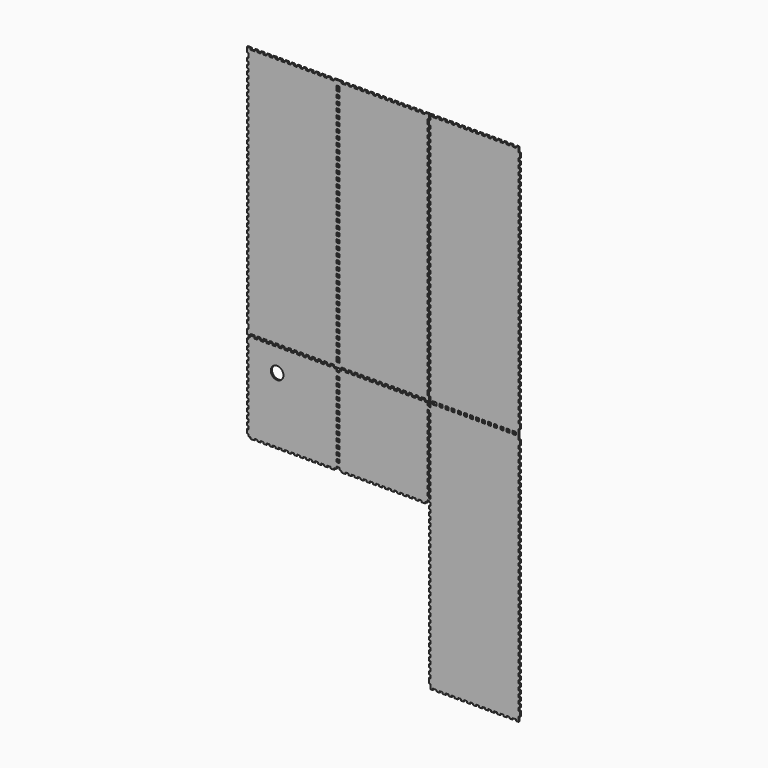
from build123d import *

# Parameters (mm, degrees)
F1_DEPTH = 3


with BuildPart() as f1:
    # F0 (on Front) → F1 (new body)
    with BuildSketch(Plane.XZ):
        Polygon((94.128044, 496.455848), (91.091867, 496.455848), (91.091867, 486.84343), (94.128044, 486.84343), (94.128044, 480.771076), (91.091867, 480.771076), (91.091867, 474.696151), (94.128044, 474.696151), (94.128044, 468.623797), (91.091867, 468.623797), (91.091867, 462.554014), (94.128044, 462.554014), (94.128044, 456.479089), (91.091867, 456.479089), (91.091867, 450.406735), (94.128044, 450.406735), (94.128044, 444.33181), (91.091867, 444.33181), (91.091867, 438.259456), (94.128044, 438.259456), (94.128044, 432.184531), (91.091867, 432.184531), (91.091867, 426.112177), (94.128044, 426.112177), (94.128044, 420.042393), (91.091867, 420.042393), (91.091867, 413.967468), (94.128044, 413.967468), (94.128044, 407.895114), (91.091867, 407.895114), (91.091867, 401.820189), (94.128044, 401.820189), (94.128044, 395.750406), (91.091867, 395.750406), (91.091867, 389.678052), (94.128044, 389.678052), (94.128044, 383.603127), (91.091867, 383.603127), (91.091867, 377.530773), (94.128044, 377.530773), (94.128044, 371.455848), (91.091867, 371.455848), (91.091867, 365.386065), (94.128044, 365.386065), (94.128044, 359.31114), (91.091867, 359.31114), (91.091867, 353.238786), (94.128044, 353.238786), (94.128044, 347.163861), (91.091867, 347.163861), (91.091867, 341.094078), (94.128044, 341.094078), (94.128044, 335.021724), (91.091867, 335.021724), (91.091867, 328.946799), (94.128044, 328.946799), (94.128044, 322.874445), (91.091867, 322.874445), (91.091867, 316.79952), (94.128044, 316.79952), (94.128044, 310.729737), (91.091867, 310.729737), (91.091867, 304.657382), (94.128044, 304.657382), (94.128044, 298.582458), (91.091867, 298.582458), (91.091867, 292.510103), (94.128044, 292.510103), (94.128044, 286.44032), (91.091867, 286.44032), (91.091867, 280.365395), (94.128044, 280.365395), (94.128044, 274.293041), (91.091867, 274.293041), (91.091867, 268.218116), (94.128044, 268.218116), (94.128044, 262.145762), (91.091867, 262.145762), (91.091867, 256.073408), (94.128044, 256.073408), (94.128044, 250.001054), (91.091867, 250.001054), (91.091867, 243.926129), (94.128044, 243.926129), (94.128044, 237.853775), (91.091867, 237.853775), (91.091867, 231.77885), (94.128044, 231.77885), (94.128044, 225.709067), (91.091867, 225.709067), (91.091867, 219.636713), (94.128044, 219.636713), (94.128044, 213.561788), (91.091867, 213.561788), (91.091867, 207.489434), (94.128044, 207.489434), (94.128044, 201.419651), (91.091867, 201.419651), (91.091867, 195.344726), (94.128044, 195.344726), (94.128044, 189.272372), (91.091867, 189.272372), (91.091867, 183.197447), (94.128044, 183.197447), (94.128044, 177.125093), (91.091867, 177.125093), (91.091867, 171.055309), (94.128044, 171.055309), (94.128044, 164.980384), (91.091867, 164.980384), (91.091867, 158.90803), (94.128044, 158.90803), (94.128044, 152.833105), (91.091867, 152.833105), (91.091867, 146.763322), (94.128044, 146.763322), (94.128044, 140.688397), (91.091867, 140.688397), (91.091867, 134.616043), (94.128044, 134.616043), (94.128044, 128.543689), (91.091867, 128.543689), (91.091867, 122.468764), (94.128044, 122.468764), (94.128044, 116.398981), (91.091867, 116.398981), (91.091867, 110.324056), (94.128044, 110.324056), (94.128044, 104.251702), (91.091867, 104.251702), (91.091867, 98.176777), (94.128044, 98.176777), (94.128044, 92.106994), (91.091867, 92.106994), (91.091867, 86.03464), (94.128044, 86.03464), (94.128044, 79.959715), (91.091867, 79.959715), (91.091867, 73.887361), (94.128044, 73.887361), (94.128044, 67.812436), (91.091867, 67.812436), (91.091867, 61.740082), (94.128044, 61.740082), (94.128044, 55.665157), (91.091867, 55.665157), (91.091867, 49.595373), (94.128044, 49.595373), (94.128044, 43.523019), (91.091867, 43.523019), (91.091867, 37.448094), (94.128044, 37.448094), (94.128044, 31.37574), (91.091867, 31.37574), (91.091867, 25.305957), (94.128044, 25.305957), (94.128044, 19.231032), (91.091867, 19.231032), (91.091867, 9.616043), (94.128044, 9.616043), (94.128044, 0.001054), (98.683595, 0.001054), (98.683595, 3.037231), (106.275323, 3.037231), (106.275323, 0.001054), (112.347677, 0.001054), (112.347677, 3.037231), (118.422602, 3.037231), (118.422602, 0.001054), (124.492385, 0.001054), (124.492385, 3.037231), (130.564739, 3.037231), (130.564739, 0.001054), (136.639664, 0.001054), (136.639664, 3.037231), (142.712018, 3.037231), (142.712018, 0.001054), (148.786943, 0.001054), (148.786943, 3.037231), (154.856726, 3.037231), (154.856726, 0.001054), (160.92908, 0.001054), (160.92908, 3.037231), (167.004005, 3.037231), (167.004005, 0.001054), (173.076359, 0.001054), (173.076359, 3.037231), (179.148714, 3.037231), (179.148714, 0.001054), (185.221068, 0.001054), (185.221068, 3.037231), (191.295993, 3.037231), (191.295993, 0.001054), (197.368347, 0.001054), (197.368347, 3.037231), (203.443272, 3.037231), (203.443272, 0.001054), (209.513055, 0.001054), (209.513055, 3.037231), (215.585409, 3.037231), (215.585409, 0.001054), (221.660334, 0.001054), (221.660334, 3.037231), (227.732688, 3.037231), (227.732688, 0.001054), (233.802471, 0.001054), (233.802471, 3.037231), (239.877396, 3.037231), (239.877396, 0.001054), (245.94975, 0.001054), (245.94975, 3.037231), (252.024675, 3.037231), (252.024675, 0.001054), (258.097029, 0.001054), (258.097029, 3.037231), (265.688757, 3.037231), (265.688757, 0.001054), (270.244308, 0.001054), (270.244308, 9.616043), (273.280485, 9.616043), (273.280485, 19.231032), (270.244308, 19.231032), (270.244308, 25.305957), (273.280485, 25.305957), (273.280485, 31.37574), (270.244308, 31.37574), (270.244308, 37.448094), (273.280485, 37.448094), (273.280485, 43.523019), (270.244308, 43.523019), (270.244308, 49.595373), (273.280485, 49.595373), (273.280485, 55.665157), (270.244308, 55.665157), (270.244308, 61.740082), (273.280485, 61.740082), (273.280485, 67.812436), (270.244308, 67.812436), (270.244308, 73.887361), (273.280485, 73.887361), (273.280485, 79.959715), (270.244308, 79.959715), (270.244308, 86.03464), (273.280485, 86.03464), (273.280485, 92.106994), (270.244308, 92.106994), (270.244308, 98.176777), (273.280485, 98.176777), (273.280485, 104.251702), (270.244308, 104.251702), (270.244308, 110.324056), (273.280485, 110.324056), (273.280485, 116.398981), (270.244308, 116.398981), (270.244308, 122.468764), (273.280485, 122.468764), (273.280485, 128.543689), (270.244308, 128.543689), (270.244308, 134.616043), (273.280485, 134.616043), (273.280485, 140.688397), (270.244308, 140.688397), (270.244308, 146.763322), (273.280485, 146.763322), (273.280485, 152.833105), (270.244308, 152.833105), (270.244308, 158.90803), (273.280485, 158.90803), (273.280485, 164.980384), (270.244308, 164.980384), (270.244308, 171.055309), (273.280485, 171.055309), (273.280485, 177.125093), (270.244308, 177.125093), (270.244308, 183.197447), (273.280485, 183.197447), (273.280485, 189.272372), (270.244308, 189.272372), (270.244308, 195.344726), (273.280485, 195.344726), (273.280485, 201.419651), (270.244308, 201.419651), (270.244308, 207.489434), (273.280485, 207.489434), (273.280485, 213.561788), (270.244308, 213.561788), (270.244308, 219.636713), (273.280485, 219.636713), (273.280485, 225.709067), (270.244308, 225.709067), (270.244308, 231.77885), (273.280485, 231.77885), (273.280485, 237.853775), (270.244308, 237.853775), (270.244308, 243.926129), (273.280485, 243.926129), (273.280485, 250.001054), (270.244308, 250.001054), (270.244308, 256.073408), (273.280485, 256.073408), (273.280485, 262.145762), (270.244308, 262.145762), (270.244308, 268.218116), (273.280485, 268.218116), (273.280485, 274.293041), (270.244308, 274.293041), (270.244308, 280.365395), (273.280485, 280.365395), (273.280485, 286.44032), (270.244308, 286.44032), (270.244308, 292.510103), (273.280485, 292.510103), (273.280485, 298.582458), (270.244308, 298.582458), (270.244308, 304.657382), (273.280485, 304.657382), (273.280485, 310.729737), (270.244308, 310.729737), (270.244308, 316.79952), (273.280485, 316.79952), (273.280485, 322.874445), (270.244308, 322.874445), (270.244308, 328.946799), (273.280485, 328.946799), (273.280485, 335.021724), (270.244308, 335.021724), (270.244308, 341.094078), (273.280485, 341.094078), (273.280485, 347.163861), (270.244308, 347.163861), (270.244308, 353.238786), (273.280485, 353.238786), (273.280485, 359.31114), (270.244308, 359.31114), (270.244308, 365.386065), (273.280485, 365.386065), (273.280485, 371.455848), (270.244308, 371.455848), (270.244308, 377.530773), (273.280485, 377.530773), (273.280485, 383.603127), (270.244308, 383.603127), (270.244308, 389.678052), (273.280485, 389.678052), (273.280485, 395.750406), (270.244308, 395.750406), (270.244308, 401.820189), (273.280485, 401.820189), (273.280485, 407.895114), (270.244308, 407.895114), (270.244308, 413.967468), (273.280485, 413.967468), (273.280485, 420.042393), (270.244308, 420.042393), (270.244308, 426.112177), (273.280485, 426.112177), (273.280485, 432.184531), (270.244308, 432.184531), (270.244308, 438.259456), (273.280485, 438.259456), (273.280485, 444.33181), (270.244308, 444.33181), (270.244308, 450.406735), (273.280485, 450.406735), (273.280485, 456.479089), (270.244308, 456.479089), (270.244308, 462.554014), (273.280485, 462.554014), (273.280485, 468.623797), (270.244308, 468.623797), (270.244308, 474.696151), (273.280485, 474.696151), (273.280485, 480.771076), (270.244308, 480.771076), (270.244308, 486.84343), (273.280485, 486.84343), (273.280485, 496.455848), (270.244308, 496.455848), (270.244308, 506.073408), (265.688757, 506.073408), (265.688757, 503.037231), (258.097029, 503.037231), (258.097029, 506.073408), (252.024675, 506.073408), (252.024675, 503.037231), (245.94975, 503.037231), (245.94975, 506.073408), (239.877396, 506.073408), (239.877396, 503.037231), (233.802471, 503.037231), (233.802471, 506.073408), (227.732688, 506.073408), (227.732688, 503.037231), (221.660334, 503.037231), (221.660334, 506.073408), (215.585409, 506.073408), (215.585409, 503.037231), (209.513055, 503.037231), (209.513055, 506.073408), (203.443272, 506.073408), (203.443272, 503.037231), (197.368347, 503.037231), (197.368347, 506.073408), (191.295993, 506.073408), (191.295993, 503.037231), (185.221068, 503.037231), (185.221068, 506.073408), (179.148714, 506.073408), (179.148714, 503.037231), (173.076359, 503.037231), (173.076359, 506.073408), (167.004005, 506.073408), (167.004005, 503.037231), (160.92908, 503.037231), (160.92908, 506.073408), (154.856726, 506.073408), (154.856726, 503.037231), (148.786943, 503.037231), (148.786943, 506.073408), (142.712018, 506.073408), (142.712018, 503.037231), (136.639664, 503.037231), (136.639664, 506.073408), (130.564739, 506.073408), (130.564739, 503.037231), (124.492385, 503.037231), (124.492385, 506.073408), (118.422602, 506.073408), (118.422602, 503.037231), (112.347677, 503.037231), (112.347677, 506.073408), (106.275323, 506.073408), (106.275323, 503.037231), (98.683595, 503.037231), (98.683595, 506.073408), (94.128044, 506.073408), align=None)
        Polygon((-265.6885, 506.073408), (-273.280485, 506.073408), (-273.280485, 496.455848), (-270.243794, 496.455848), (-270.243794, 486.84343), (-273.280485, 486.84343), (-273.280485, 480.771076), (-270.243794, 480.771076), (-270.243794, 474.696151), (-273.280485, 474.696151), (-273.280485, 468.623797), (-270.243794, 468.623797), (-270.243794, 462.554014), (-273.280485, 462.554014), (-273.280485, 456.479089), (-270.243794, 456.479089), (-270.243794, 450.406735), (-273.280485, 450.406735), (-273.280485, 444.33181), (-270.243794, 444.33181), (-270.243794, 438.259456), (-273.280485, 438.259456), (-273.280485, 432.184531), (-270.243794, 432.184531), (-270.243794, 426.112177), (-273.280485, 426.112177), (-273.280485, 420.042393), (-270.243794, 420.042393), (-270.243794, 413.967468), (-273.280485, 413.967468), (-273.280485, 407.895114), (-270.243794, 407.895114), (-270.243794, 401.820189), (-273.280485, 401.820189), (-273.280485, 395.750406), (-270.243794, 395.750406), (-270.243794, 389.678052), (-273.280485, 389.678052), (-273.280485, 383.603127), (-270.243794, 383.603127), (-270.243794, 377.530773), (-273.280485, 377.530773), (-273.280485, 371.455848), (-270.243794, 371.455848), (-270.243794, 365.386065), (-273.280485, 365.386065), (-273.280485, 359.31114), (-270.243794, 359.31114), (-270.243794, 353.238786), (-273.280485, 353.238786), (-273.280485, 347.163861), (-270.243794, 347.163861), (-270.243794, 341.094078), (-273.280485, 341.094078), (-273.280485, 335.021724), (-270.243794, 335.021724), (-270.243794, 328.946799), (-273.280485, 328.946799), (-273.280485, 322.874445), (-270.243794, 322.874445), (-270.243794, 316.79952), (-273.280485, 316.79952), (-273.280485, 310.729737), (-270.243794, 310.729737), (-270.243794, 304.657382), (-273.280485, 304.657382), (-273.280485, 298.582458), (-270.243794, 298.582458), (-270.243794, 292.510103), (-273.280485, 292.510103), (-273.280485, 286.44032), (-270.243794, 286.44032), (-270.243794, 280.365395), (-273.280485, 280.365395), (-273.280485, 274.293041), (-270.243794, 274.293041), (-270.243794, 268.218116), (-273.280485, 268.218116), (-273.280485, 262.145762), (-270.243794, 262.145762), (-270.243794, 256.073408), (-273.280485, 256.073408), (-273.280485, 250.001054), (-270.243794, 250.001054), (-270.243794, 243.926129), (-273.280485, 243.926129), (-273.280485, 237.853775), (-270.243794, 237.853775), (-270.243794, 231.77885), (-273.280485, 231.77885), (-273.280485, 225.709067), (-270.243794, 225.709067), (-270.243794, 219.636713), (-273.280485, 219.636713), (-273.280485, 213.561788), (-270.243794, 213.561788), (-270.243794, 207.489434), (-273.280485, 207.489434), (-273.280485, 201.419651), (-270.243794, 201.419651), (-270.243794, 195.344726), (-273.280485, 195.344726), (-273.280485, 189.272372), (-270.243794, 189.272372), (-270.243794, 183.197447), (-273.280485, 183.197447), (-273.280485, 177.125093), (-270.243794, 177.125093), (-270.243794, 171.055309), (-273.280485, 171.055309), (-273.280485, 164.980384), (-270.243794, 164.980384), (-270.243794, 158.90803), (-273.280485, 158.90803), (-273.280485, 152.833105), (-270.243794, 152.833105), (-270.243794, 146.763322), (-273.280485, 146.763322), (-273.280485, 140.688397), (-270.243794, 140.688397), (-270.243794, 134.616043), (-273.280485, 134.616043), (-273.280485, 128.543689), (-270.243794, 128.543689), (-270.243794, 122.468764), (-273.280485, 122.468764), (-273.280485, 116.398981), (-270.243794, 116.398981), (-270.243794, 110.324056), (-273.280485, 110.324056), (-273.280485, 104.251702), (-270.243794, 104.251702), (-270.243794, 98.176777), (-273.280485, 98.176777), (-273.280485, 92.106994), (-270.243794, 92.106994), (-270.243794, 86.03464), (-273.280485, 86.03464), (-273.280485, 79.959715), (-270.243794, 79.959715), (-270.243794, 73.887361), (-273.280485, 73.887361), (-273.280485, 67.812436), (-270.243794, 67.812436), (-270.243794, 61.740082), (-273.280485, 61.740082), (-273.280485, 55.665157), (-270.243794, 55.665157), (-270.243794, 49.595373), (-273.280485, 49.595373), (-273.280485, 43.523019), (-270.243794, 43.523019), (-270.243794, 37.448094), (-273.280485, 37.448094), (-273.280485, 31.37574), (-270.243794, 31.37574), (-270.243794, 25.305957), (-273.280485, 25.305957), (-273.280485, 19.231032), (-270.243794, 19.231032), (-270.243794, 9.616043), (-273.280485, 9.616043), (-273.280485, 0.001054), (-265.6885, 0.001054), (-265.6885, 3.037231), (-258.098057, 3.037231), (-258.098057, 0.001054), (-252.025446, 0.001054), (-252.025446, 3.037231), (-245.952578, 3.037231), (-245.952578, 0.001054), (-239.87971, 0.001054), (-239.87971, 3.037231), (-233.806842, 3.037231), (-233.806842, 0.001054), (-227.733716, 0.001054), (-227.733716, 3.037231), (-221.660848, 3.037231), (-221.660848, 0.001054), (-215.588237, 0.001054), (-215.588237, 3.037231), (-209.515369, 3.037231), (-209.515369, 0.001054), (-203.4425, 0.001054), (-203.4425, 3.037231), (-197.369632, 3.037231), (-197.369632, 0.001054), (-191.296507, 0.001054), (-191.296507, 3.037231), (-185.223896, 3.037231), (-185.223896, 0.001054), (-179.151027, 0.001054), (-179.151027, 3.037231), (-173.078159, 3.037231), (-173.078159, 0.001054), (-167.005291, 0.001054), (-167.005291, 3.037231), (-160.932423, 3.037231), (-160.932423, 0.001054), (-154.859811, 0.001054), (-154.859811, 3.037231), (-148.786943, 3.037231), (-148.786943, 0.001054), (-142.713818, 0.001054), (-142.713818, 3.037231), (-136.639664, 3.037231), (-136.639664, 0.001054), (-130.566539, 0.001054), (-130.566539, 3.037231), (-124.493928, 3.037231), (-124.493928, 0.001054), (-118.421059, 0.001054), (-118.421059, 3.037231), (-112.348191, 3.037231), (-112.348191, 0.001054), (-106.275323, 0.001054), (-106.275323, 3.037231), (-98.68488, 3.037231), (-98.68488, 0.001054), (-91.093409, 0.001054), (-91.093409, 9.616043), (-94.129329, 9.616043), (-94.129329, 19.231032), (-91.093409, 19.231032), (-91.093409, 25.305957), (-94.129329, 25.305957), (-94.129329, 31.37574), (-91.093409, 31.37574), (-91.093409, 37.448094), (-94.129329, 37.448094), (-94.129329, 43.523019), (-91.093409, 43.523019), (-91.093409, 49.595373), (-94.129329, 49.595373), (-94.129329, 55.665157), (-91.093409, 55.665157), (-91.093409, 61.740082), (-94.129329, 61.740082), (-94.129329, 67.812436), (-91.093409, 67.812436), (-91.093409, 73.887361), (-94.129329, 73.887361), (-94.129329, 79.959715), (-91.093409, 79.959715), (-91.093409, 86.03464), (-94.129329, 86.03464), (-94.129329, 92.106994), (-91.093409, 92.106994), (-91.093409, 98.176777), (-94.129329, 98.176777), (-94.129329, 104.251702), (-91.093409, 104.251702), (-91.093409, 110.324056), (-94.129329, 110.324056), (-94.129329, 116.398981), (-91.093409, 116.398981), (-91.093409, 122.468764), (-94.129329, 122.468764), (-94.129329, 128.543689), (-91.093409, 128.543689), (-91.093409, 134.616043), (-94.129329, 134.616043), (-94.129329, 140.688397), (-91.093409, 140.688397), (-91.093409, 146.763322), (-94.129329, 146.763322), (-94.129329, 152.833105), (-91.093409, 152.833105), (-91.093409, 158.90803), (-94.129329, 158.90803), (-94.129329, 164.980384), (-91.093409, 164.980384), (-91.093409, 171.055309), (-94.129329, 171.055309), (-94.129329, 177.125093), (-91.093409, 177.125093), (-91.093409, 183.197447), (-94.129329, 183.197447), (-94.129329, 189.272372), (-91.093409, 189.272372), (-91.093409, 195.344726), (-94.129329, 195.344726), (-94.129329, 201.419651), (-91.093409, 201.419651), (-91.093409, 207.489434), (-94.129329, 207.489434), (-94.129329, 213.561788), (-91.093409, 213.561788), (-91.093409, 219.636713), (-94.129329, 219.636713), (-94.129329, 225.709067), (-91.093409, 225.709067), (-91.093409, 231.77885), (-94.129329, 231.77885), (-94.129329, 237.853775), (-91.093409, 237.853775), (-91.093409, 243.926129), (-94.129329, 243.926129), (-94.129329, 250.001054), (-91.093409, 250.001054), (-91.093409, 256.073408), (-94.129329, 256.073408), (-94.129329, 262.145762), (-91.093409, 262.145762), (-91.093409, 268.218116), (-94.129329, 268.218116), (-94.129329, 274.293041), (-91.093409, 274.293041), (-91.093409, 280.365395), (-94.129329, 280.365395), (-94.129329, 286.44032), (-91.093409, 286.44032), (-91.093409, 292.510103), (-94.129329, 292.510103), (-94.129329, 298.582458), (-91.093409, 298.582458), (-91.093409, 304.657382), (-94.129329, 304.657382), (-94.129329, 310.729737), (-91.093409, 310.729737), (-91.093409, 316.79952), (-94.129329, 316.79952), (-94.129329, 322.874445), (-91.093409, 322.874445), (-91.093409, 328.946799), (-94.129329, 328.946799), (-94.129329, 335.021724), (-91.093409, 335.021724), (-91.093409, 341.094078), (-94.129329, 341.094078), (-94.129329, 347.163861), (-91.093409, 347.163861), (-91.093409, 353.238786), (-94.129329, 353.238786), (-94.129329, 359.31114), (-91.093409, 359.31114), (-91.093409, 365.386065), (-94.129329, 365.386065), (-94.129329, 371.455848), (-91.093409, 371.455848), (-91.093409, 377.530773), (-94.129329, 377.530773), (-94.129329, 383.603127), (-91.093409, 383.603127), (-91.093409, 389.678052), (-94.129329, 389.678052), (-94.129329, 395.750406), (-91.093409, 395.750406), (-91.093409, 401.820189), (-94.129329, 401.820189), (-94.129329, 407.895114), (-91.093409, 407.895114), (-91.093409, 413.967468), (-94.129329, 413.967468), (-94.129329, 420.042393), (-91.093409, 420.042393), (-91.093409, 426.112177), (-94.129329, 426.112177), (-94.129329, 432.184531), (-91.093409, 432.184531), (-91.093409, 438.259456), (-94.129329, 438.259456), (-94.129329, 444.33181), (-91.093409, 444.33181), (-91.093409, 450.406735), (-94.129329, 450.406735), (-94.129329, 456.479089), (-91.093409, 456.479089), (-91.093409, 462.554014), (-94.129329, 462.554014), (-94.129329, 468.623797), (-91.093409, 468.623797), (-91.093409, 474.696151), (-94.129329, 474.696151), (-94.129329, 480.771076), (-91.093409, 480.771076), (-91.093409, 486.84343), (-94.129329, 486.84343), (-94.129329, 496.455848), (-91.093409, 496.455848), (-91.093409, 506.073408), (-98.68488, 506.073408), (-98.68488, 503.037231), (-106.275323, 503.037231), (-106.275323, 506.073408), (-112.348191, 506.073408), (-112.348191, 503.037231), (-118.421059, 503.037231), (-118.421059, 506.073408), (-124.493928, 506.073408), (-124.493928, 503.037231), (-130.566539, 503.037231), (-130.566539, 506.073408), (-136.639664, 506.073408), (-136.639664, 503.037231), (-142.713818, 503.037231), (-142.713818, 506.073408), (-148.786943, 506.073408), (-148.786943, 503.037231), (-154.859811, 503.037231), (-154.859811, 506.073408), (-160.932423, 506.073408), (-160.932423, 503.037231), (-167.005291, 503.037231), (-167.005291, 506.073408), (-173.078159, 506.073408), (-173.078159, 503.037231), (-179.151027, 503.037231), (-179.151027, 506.073408), (-185.223896, 506.073408), (-185.223896, 503.037231), (-191.296507, 503.037231), (-191.296507, 506.073408), (-197.369632, 506.073408), (-197.369632, 503.037231), (-203.4425, 503.037231), (-203.4425, 506.073408), (-209.515369, 506.073408), (-209.515369, 503.037231), (-215.588237, 503.037231), (-215.588237, 506.073408), (-221.660848, 506.073408), (-221.660848, 503.037231), (-227.733716, 503.037231), (-227.733716, 506.073408), (-233.806842, 506.073408), (-233.806842, 503.037231), (-239.87971, 503.037231), (-239.87971, 506.073408), (-245.952578, 506.073408), (-245.952578, 503.037231), (-252.025446, 503.037231), (-252.025446, 506.073408), (-258.098057, 506.073408), (-258.098057, 503.037231), (-265.6885, 503.037231), align=None)
        Polygon((-83.502967, 506.073408), (-91.093409, 506.073408), (-91.093409, 496.455848), (-88.056975, 496.455848), (-88.056975, 486.84343), (-91.093409, 486.84343), (-91.093409, 480.771076), (-88.056975, 480.771076), (-88.056975, 474.696151), (-91.093409, 474.696151), (-91.093409, 468.623797), (-88.056975, 468.623797), (-88.056975, 462.554014), (-91.093409, 462.554014), (-91.093409, 456.479089), (-88.056975, 456.479089), (-88.056975, 450.406735), (-91.093409, 450.406735), (-91.093409, 444.33181), (-88.056975, 444.33181), (-88.056975, 438.259456), (-91.093409, 438.259456), (-91.093409, 432.184531), (-88.056975, 432.184531), (-88.056975, 426.112177), (-91.093409, 426.112177), (-91.093409, 420.042393), (-88.056975, 420.042393), (-88.056975, 413.967468), (-91.093409, 413.967468), (-91.093409, 407.895114), (-88.056975, 407.895114), (-88.056975, 401.820189), (-91.093409, 401.820189), (-91.093409, 395.750406), (-88.056975, 395.750406), (-88.056975, 389.678052), (-91.093409, 389.678052), (-91.093409, 383.603127), (-88.056975, 383.603127), (-88.056975, 377.530773), (-91.093409, 377.530773), (-91.093409, 371.455848), (-88.056975, 371.455848), (-88.056975, 365.386065), (-91.093409, 365.386065), (-91.093409, 359.31114), (-88.056975, 359.31114), (-88.056975, 353.238786), (-91.093409, 353.238786), (-91.093409, 347.163861), (-88.056975, 347.163861), (-88.056975, 341.094078), (-91.093409, 341.094078), (-91.093409, 335.021724), (-88.056975, 335.021724), (-88.056975, 328.946799), (-91.093409, 328.946799), (-91.093409, 322.874445), (-88.056975, 322.874445), (-88.056975, 316.79952), (-91.093409, 316.79952), (-91.093409, 310.729737), (-88.056975, 310.729737), (-88.056975, 304.657382), (-91.093409, 304.657382), (-91.093409, 298.582458), (-88.056975, 298.582458), (-88.056975, 292.510103), (-91.093409, 292.510103), (-91.093409, 286.44032), (-88.056975, 286.44032), (-88.056975, 280.365395), (-91.093409, 280.365395), (-91.093409, 274.293041), (-88.056975, 274.293041), (-88.056975, 268.218116), (-91.093409, 268.218116), (-91.093409, 262.145762), (-88.056975, 262.145762), (-88.056975, 256.073408), (-91.093409, 256.073408), (-91.093409, 250.001054), (-88.056975, 250.001054), (-88.056975, 243.926129), (-91.093409, 243.926129), (-91.093409, 237.853775), (-88.056975, 237.853775), (-88.056975, 231.77885), (-91.093409, 231.77885), (-91.093409, 225.709067), (-88.056975, 225.709067), (-88.056975, 219.636713), (-91.093409, 219.636713), (-91.093409, 213.561788), (-88.056975, 213.561788), (-88.056975, 207.489434), (-91.093409, 207.489434), (-91.093409, 201.419651), (-88.056975, 201.419651), (-88.056975, 195.344726), (-91.093409, 195.344726), (-91.093409, 189.272372), (-88.056975, 189.272372), (-88.056975, 183.197447), (-91.093409, 183.197447), (-91.093409, 177.125093), (-88.056975, 177.125093), (-88.056975, 171.055309), (-91.093409, 171.055309), (-91.093409, 164.980384), (-88.056975, 164.980384), (-88.056975, 158.90803), (-91.093409, 158.90803), (-91.093409, 152.833105), (-88.056975, 152.833105), (-88.056975, 146.763322), (-91.093409, 146.763322), (-91.093409, 140.688397), (-88.056975, 140.688397), (-88.056975, 134.616043), (-91.093409, 134.616043), (-91.093409, 128.543689), (-88.056975, 128.543689), (-88.056975, 122.468764), (-91.093409, 122.468764), (-91.093409, 116.398981), (-88.056975, 116.398981), (-88.056975, 110.324056), (-91.093409, 110.324056), (-91.093409, 104.251702), (-88.056975, 104.251702), (-88.056975, 98.176777), (-91.093409, 98.176777), (-91.093409, 92.106994), (-88.056975, 92.106994), (-88.056975, 86.03464), (-91.093409, 86.03464), (-91.093409, 79.959715), (-88.056975, 79.959715), (-88.056975, 73.887361), (-91.093409, 73.887361), (-91.093409, 67.812436), (-88.056975, 67.812436), (-88.056975, 61.740082), (-91.093409, 61.740082), (-91.093409, 55.665157), (-88.056975, 55.665157), (-88.056975, 49.595373), (-91.093409, 49.595373), (-91.093409, 43.523019), (-88.056975, 43.523019), (-88.056975, 37.448094), (-91.093409, 37.448094), (-91.093409, 31.37574), (-88.056975, 31.37574), (-88.056975, 25.305957), (-91.093409, 25.305957), (-91.093409, 19.231032), (-88.056975, 19.231032), (-88.056975, 9.616043), (-91.093409, 9.616043), (-91.093409, 0.001054), (-83.502967, 0.001054), (-83.502967, 3.037231), (-75.910725, 3.037231), (-75.910725, 0.001054), (-69.83837, 0.001054), (-69.83837, 3.037231), (-63.766016, 3.037231), (-63.766016, 0.001054), (-57.693662, 0.001054), (-57.693662, 3.037231), (-51.618737, 3.037231), (-51.618737, 0.001054), (-45.546383, 0.001054), (-45.546383, 3.037231), (-39.474029, 3.037231), (-39.474029, 0.001054), (-33.401675, 0.001054), (-33.401675, 3.037231), (-27.329321, 3.037231), (-27.329321, 0.001054), (-21.254396, 0.001054), (-21.254396, 3.037231), (-15.182042, 3.037231), (-15.182042, 0.001054), (-9.109688, 0.001054), (-9.109688, 3.037231), (-3.037334, 3.037231), (-3.037334, 0.001054), (3.03502, 0.001054), (3.03502, 3.037231), (9.109945, 3.037231), (9.109945, 0.001054), (15.182299, 0.001054), (15.182299, 3.037231), (21.254653, 3.037231), (21.254653, 0.001054), (27.327007, 0.001054), (27.327007, 3.037231), (33.401932, 3.037231), (33.401932, 0.001054), (39.471715, 0.001054), (39.471715, 3.037231), (45.54407, 3.037231), (45.54407, 0.001054), (51.618994, 0.001054), (51.618994, 3.037231), (57.693919, 3.037231), (57.693919, 0.001054), (63.766273, 0.001054), (63.766273, 3.037231), (69.836057, 3.037231), (69.836057, 0.001054), (75.910982, 0.001054), (75.910982, 3.037231), (83.500139, 3.037231), (83.500139, 0.001054), (91.091867, 0.001054), (91.091867, 9.616043), (88.058261, 9.616043), (88.058261, 19.231032), (91.091867, 19.231032), (91.091867, 25.305957), (88.058261, 25.305957), (88.058261, 31.37574), (91.091867, 31.37574), (91.091867, 37.448094), (88.058261, 37.448094), (88.058261, 43.523019), (91.091867, 43.523019), (91.091867, 49.595373), (88.058261, 49.595373), (88.058261, 55.665157), (91.091867, 55.665157), (91.091867, 61.740082), (88.058261, 61.740082), (88.058261, 67.812436), (91.091867, 67.812436), (91.091867, 73.887361), (88.058261, 73.887361), (88.058261, 79.959715), (91.091867, 79.959715), (91.091867, 86.03464), (88.058261, 86.03464), (88.058261, 92.106994), (91.091867, 92.106994), (91.091867, 98.176777), (88.058261, 98.176777), (88.058261, 104.251702), (91.091867, 104.251702), (91.091867, 110.324056), (88.058261, 110.324056), (88.058261, 116.398981), (91.091867, 116.398981), (91.091867, 122.468764), (88.058261, 122.468764), (88.058261, 128.543689), (91.091867, 128.543689), (91.091867, 134.616043), (88.058261, 134.616043), (88.058261, 140.688397), (91.091867, 140.688397), (91.091867, 146.763322), (88.058261, 146.763322), (88.058261, 152.833105), (91.091867, 152.833105), (91.091867, 158.90803), (88.058261, 158.90803), (88.058261, 164.980384), (91.091867, 164.980384), (91.091867, 171.055309), (88.058261, 171.055309), (88.058261, 177.125093), (91.091867, 177.125093), (91.091867, 183.197447), (88.058261, 183.197447), (88.058261, 189.272372), (91.091867, 189.272372), (91.091867, 195.344726), (88.058261, 195.344726), (88.058261, 201.419651), (91.091867, 201.419651), (91.091867, 207.489434), (88.058261, 207.489434), (88.058261, 213.561788), (91.091867, 213.561788), (91.091867, 219.636713), (88.058261, 219.636713), (88.058261, 225.709067), (91.091867, 225.709067), (91.091867, 231.77885), (88.058261, 231.77885), (88.058261, 237.853775), (91.091867, 237.853775), (91.091867, 243.926129), (88.058261, 243.926129), (88.058261, 250.001054), (91.091867, 250.001054), (91.091867, 256.073408), (88.058261, 256.073408), (88.058261, 262.145762), (91.091867, 262.145762), (91.091867, 268.218116), (88.058261, 268.218116), (88.058261, 274.293041), (91.091867, 274.293041), (91.091867, 280.365395), (88.058261, 280.365395), (88.058261, 286.44032), (91.091867, 286.44032), (91.091867, 292.510103), (88.058261, 292.510103), (88.058261, 298.582458), (91.091867, 298.582458), (91.091867, 304.657382), (88.058261, 304.657382), (88.058261, 310.729737), (91.091867, 310.729737), (91.091867, 316.79952), (88.058261, 316.79952), (88.058261, 322.874445), (91.091867, 322.874445), (91.091867, 328.946799), (88.058261, 328.946799), (88.058261, 335.021724), (91.091867, 335.021724), (91.091867, 341.094078), (88.058261, 341.094078), (88.058261, 347.163861), (91.091867, 347.163861), (91.091867, 353.238786), (88.058261, 353.238786), (88.058261, 359.31114), (91.091867, 359.31114), (91.091867, 365.386065), (88.058261, 365.386065), (88.058261, 371.455848), (91.091867, 371.455848), (91.091867, 377.530773), (88.058261, 377.530773), (88.058261, 383.603127), (91.091867, 383.603127), (91.091867, 389.678052), (88.058261, 389.678052), (88.058261, 395.750406), (91.091867, 395.750406), (91.091867, 401.820189), (88.058261, 401.820189), (88.058261, 407.895114), (91.091867, 407.895114), (91.091867, 413.967468), (88.058261, 413.967468), (88.058261, 420.042393), (91.091867, 420.042393), (91.091867, 426.112177), (88.058261, 426.112177), (88.058261, 432.184531), (91.091867, 432.184531), (91.091867, 438.259456), (88.058261, 438.259456), (88.058261, 444.33181), (91.091867, 444.33181), (91.091867, 450.406735), (88.058261, 450.406735), (88.058261, 456.479089), (91.091867, 456.479089), (91.091867, 462.554014), (88.058261, 462.554014), (88.058261, 468.623797), (91.091867, 468.623797), (91.091867, 474.696151), (88.058261, 474.696151), (88.058261, 480.771076), (91.091867, 480.771076), (91.091867, 486.84343), (88.058261, 486.84343), (88.058261, 496.455848), (91.091867, 496.455848), (91.091867, 506.073408), (83.500139, 506.073408), (83.500139, 503.037231), (75.910982, 503.037231), (75.910982, 506.073408), (69.836057, 506.073408), (69.836057, 503.037231), (63.766273, 503.037231), (63.766273, 506.073408), (57.693919, 506.073408), (57.693919, 503.037231), (51.618994, 503.037231), (51.618994, 506.073408), (45.54407, 506.073408), (45.54407, 503.037231), (39.471715, 503.037231), (39.471715, 506.073408), (33.401932, 506.073408), (33.401932, 503.037231), (27.327007, 503.037231), (27.327007, 506.073408), (21.254653, 506.073408), (21.254653, 503.037231), (15.182299, 503.037231), (15.182299, 506.073408), (9.109945, 506.073408), (9.109945, 503.037231), (3.03502, 503.037231), (3.03502, 506.073408), (-3.037334, 506.073408), (-3.037334, 503.037231), (-9.109688, 503.037231), (-9.109688, 506.073408), (-15.182042, 506.073408), (-15.182042, 503.037231), (-21.254396, 503.037231), (-21.254396, 506.073408), (-27.329321, 506.073408), (-27.329321, 503.037231), (-33.401675, 503.037231), (-33.401675, 506.073408), (-39.474029, 506.073408), (-39.474029, 503.037231), (-45.546383, 503.037231), (-45.546383, 506.073408), (-51.618737, 506.073408), (-51.618737, 503.037231), (-57.693662, 503.037231), (-57.693662, 506.073408), (-63.766016, 506.073408), (-63.766016, 503.037231), (-69.83837, 503.037231), (-69.83837, 506.073408), (-75.910725, 506.073408), (-75.910725, 503.037231), (-83.502967, 503.037231), align=None)
        Polygon((-258.098057, 0.001054), (-265.6885, 0.001054), (-265.6885, -3.035123), (-270.243794, -3.035123), (-270.243794, -7.590674), (-273.280485, -7.590674), (-273.280485, -15.182402), (-270.243794, -15.182402), (-270.243794, -21.257327), (-273.280485, -21.257327), (-273.280485, -27.32711), (-270.243794, -27.32711), (-270.243794, -33.399464), (-273.280485, -33.399464), (-273.280485, -39.474389), (-270.243794, -39.474389), (-270.243794, -45.546743), (-273.280485, -45.546743), (-273.280485, -51.616526), (-270.243794, -51.616526), (-270.243794, -57.691451), (-273.280485, -57.691451), (-273.280485, -63.763805), (-270.243794, -63.763805), (-270.243794, -69.83873), (-273.280485, -69.83873), (-273.280485, -75.911084), (-270.243794, -75.911084), (-270.243794, -81.986009), (-273.280485, -81.986009), (-273.280485, -88.058363), (-270.243794, -88.058363), (-270.243794, -94.128147), (-273.280485, -94.128147), (-273.280485, -100.203072), (-270.243794, -100.203072), (-270.243794, -106.275426), (-273.280485, -106.275426), (-273.280485, -112.350351), (-270.243794, -112.350351), (-270.243794, -118.420134), (-273.280485, -118.420134), (-273.280485, -124.492488), (-270.243794, -124.492488), (-270.243794, -130.567413), (-273.280485, -130.567413), (-273.280485, -136.642338), (-270.243794, -136.642338), (-270.243794, -142.714692), (-273.280485, -142.714692), (-273.280485, -148.784475), (-270.243794, -148.784475), (-270.243794, -154.8594), (-273.280485, -154.8594), (-273.280485, -160.931754), (-270.243794, -160.931754), (-270.243794, -167.004108), (-273.280485, -167.004108), (-273.280485, -174.595836), (-270.243794, -174.595836), (-270.243794, -179.151387), (-265.6885, -179.151387), (-265.6885, -182.187564), (-258.098057, -182.187564), (-258.098057, -179.151387), (-252.025446, -179.151387), (-252.025446, -182.187564), (-245.952578, -182.187564), (-245.952578, -179.151387), (-239.87971, -179.151387), (-239.87971, -182.187564), (-233.806842, -182.187564), (-233.806842, -179.151387), (-227.733716, -179.151387), (-227.733716, -182.187564), (-221.660848, -182.187564), (-221.660848, -179.151387), (-215.588237, -179.151387), (-215.588237, -182.187564), (-209.515369, -182.187564), (-209.515369, -179.151387), (-203.4425, -179.151387), (-203.4425, -182.187564), (-197.369632, -182.187564), (-197.369632, -179.151387), (-191.296507, -179.151387), (-191.296507, -182.187564), (-185.223896, -182.187564), (-185.223896, -179.151387), (-179.151027, -179.151387), (-179.151027, -182.187564), (-173.078159, -182.187564), (-173.078159, -179.151387), (-167.005291, -179.151387), (-167.005291, -182.187564), (-160.932423, -182.187564), (-160.932423, -179.151387), (-154.859811, -179.151387), (-154.859811, -182.187564), (-148.786943, -182.187564), (-148.786943, -179.151387), (-142.713818, -179.151387), (-142.713818, -182.187564), (-136.639664, -182.187564), (-136.639664, -179.151387), (-130.566539, -179.151387), (-130.566539, -182.187564), (-124.493928, -182.187564), (-124.493928, -179.151387), (-118.421059, -179.151387), (-118.421059, -182.187564), (-112.348191, -182.187564), (-112.348191, -179.151387), (-106.275323, -179.151387), (-106.275323, -182.187564), (-98.68488, -182.187564), (-98.68488, -179.151387), (-94.129329, -179.151387), (-94.129329, -174.595836), (-91.093409, -174.595836), (-91.093409, -167.004108), (-94.129329, -167.004108), (-94.129329, -160.931754), (-91.093409, -160.931754), (-91.093409, -154.8594), (-94.129329, -154.8594), (-94.129329, -148.784475), (-91.093409, -148.784475), (-91.093409, -142.714692), (-94.129329, -142.714692), (-94.129329, -136.642338), (-91.093409, -136.642338), (-91.093409, -130.567413), (-94.129329, -130.567413), (-94.129329, -124.492488), (-91.093409, -124.492488), (-91.093409, -118.420134), (-94.129329, -118.420134), (-94.129329, -112.350351), (-91.093409, -112.350351), (-91.093409, -106.275426), (-94.129329, -106.275426), (-94.129329, -100.203072), (-91.093409, -100.203072), (-91.093409, -94.128147), (-94.129329, -94.128147), (-94.129329, -88.058363), (-91.093409, -88.058363), (-91.093409, -81.986009), (-94.129329, -81.986009), (-94.129329, -75.911084), (-91.093409, -75.911084), (-91.093409, -69.83873), (-94.129329, -69.83873), (-94.129329, -63.763805), (-91.093409, -63.763805), (-91.093409, -57.691451), (-94.129329, -57.691451), (-94.129329, -51.616526), (-91.093409, -51.616526), (-91.093409, -45.546743), (-94.129329, -45.546743), (-94.129329, -39.474389), (-91.093409, -39.474389), (-91.093409, -33.399464), (-94.129329, -33.399464), (-94.129329, -27.32711), (-91.093409, -27.32711), (-91.093409, -21.257327), (-94.129329, -21.257327), (-94.129329, -15.182402), (-91.093409, -15.182402), (-91.093409, -7.590674), (-94.129329, -7.590674), (-94.129329, -3.035123), (-98.68488, -3.035123), (-98.68488, 0.001054), (-106.275323, 0.001054), (-106.275323, -3.035123), (-112.348191, -3.035123), (-112.348191, 0.001054), (-118.421059, 0.001054), (-118.421059, -3.035123), (-124.493928, -3.035123), (-124.493928, 0.001054), (-130.566539, 0.001054), (-130.566539, -3.035123), (-136.639664, -3.035123), (-136.639664, 0.001054), (-142.713818, 0.001054), (-142.713818, -3.035123), (-148.786943, -3.035123), (-148.786943, 0.001054), (-154.859811, 0.001054), (-154.859811, -3.035123), (-160.932423, -3.035123), (-160.932423, 0.001054), (-167.005291, 0.001054), (-167.005291, -3.035123), (-173.078159, -3.035123), (-173.078159, 0.001054), (-179.151027, 0.001054), (-179.151027, -3.035123), (-185.223896, -3.035123), (-185.223896, 0.001054), (-191.296507, 0.001054), (-191.296507, -3.035123), (-197.369632, -3.035123), (-197.369632, 0.001054), (-203.4425, 0.001054), (-203.4425, -3.035123), (-209.515369, -3.035123), (-209.515369, 0.001054), (-215.588237, 0.001054), (-215.588237, -3.035123), (-221.660848, -3.035123), (-221.660848, 0.001054), (-227.733716, 0.001054), (-227.733716, -3.035123), (-233.806842, -3.035123), (-233.806842, 0.001054), (-239.87971, 0.001054), (-239.87971, -3.035123), (-245.952578, -3.035123), (-245.952578, 0.001054), (-252.025446, 0.001054), (-252.025446, -3.035123), (-258.098057, -3.035123), align=None)
        Polygon((-199.899608, -47.945349), (-199.899608, -48.58292), (-199.899608, -49.220492), (-200.157722, -51.130635), (-200.894014, -53.506103), (-202.061695, -55.655336), (-203.605492, -57.529488), (-205.478873, -59.071999), (-207.628363, -60.239166), (-210.002031, -60.977001), (-211.914488, -61.234086), (-212.551803, -61.234086), (-213.189117, -61.234086), (-215.101317, -60.977001), (-217.476785, -60.239166), (-219.626018, -59.071999), (-221.497599, -57.529488), (-223.043453, -55.655336), (-224.21062, -53.506103), (-224.947169, -51.130635), (-225.20374, -49.220492), (-225.20374, -48.58292), (-225.20374, -47.945349), (-224.947169, -46.032634), (-224.21062, -43.657167), (-223.043453, -41.507934), (-221.497599, -39.638924), (-219.626018, -38.09127), (-217.476785, -36.924103), (-215.101317, -36.188839), (-213.189117, -35.931754), (-212.551803, -35.931754), (-211.914488, -35.931754), (-210.002031, -36.188839), (-207.628363, -36.924103), (-205.478873, -38.09127), (-203.605492, -39.638924), (-202.061695, -41.507934), (-200.894014, -43.657167), (-200.157722, -46.032634), align=None, mode=Mode.SUBTRACT)
        Polygon((-75.910725, 0.001054), (-83.502967, 0.001054), (-83.502967, -3.035123), (-88.056975, -3.035123), (-88.056975, -7.590674), (-91.093409, -7.590674), (-91.093409, -15.182402), (-88.056975, -15.182402), (-88.056975, -21.257327), (-91.093409, -21.257327), (-91.093409, -27.32711), (-88.056975, -27.32711), (-88.056975, -33.399464), (-91.093409, -33.399464), (-91.093409, -39.474389), (-88.056975, -39.474389), (-88.056975, -45.546743), (-91.093409, -45.546743), (-91.093409, -51.616526), (-88.056975, -51.616526), (-88.056975, -57.691451), (-91.093409, -57.691451), (-91.093409, -63.763805), (-88.056975, -63.763805), (-88.056975, -69.83873), (-91.093409, -69.83873), (-91.093409, -75.911084), (-88.056975, -75.911084), (-88.056975, -81.986009), (-91.093409, -81.986009), (-91.093409, -88.058363), (-88.056975, -88.058363), (-88.056975, -94.128147), (-91.093409, -94.128147), (-91.093409, -100.203072), (-88.056975, -100.203072), (-88.056975, -106.275426), (-91.093409, -106.275426), (-91.093409, -112.350351), (-88.056975, -112.350351), (-88.056975, -118.420134), (-91.093409, -118.420134), (-91.093409, -124.492488), (-88.056975, -124.492488), (-88.056975, -130.567413), (-91.093409, -130.567413), (-91.093409, -136.642338), (-88.056975, -136.642338), (-88.056975, -142.714692), (-91.093409, -142.714692), (-91.093409, -148.784475), (-88.056975, -148.784475), (-88.056975, -154.8594), (-91.093409, -154.8594), (-91.093409, -160.931754), (-88.056975, -160.931754), (-88.056975, -167.004108), (-91.093409, -167.004108), (-91.093409, -174.595836), (-88.056975, -174.595836), (-88.056975, -179.151387), (-83.502967, -179.151387), (-83.502967, -182.187564), (-75.910725, -182.187564), (-75.910725, -179.151387), (-69.83837, -179.151387), (-69.83837, -182.187564), (-63.766016, -182.187564), (-63.766016, -179.151387), (-57.693662, -179.151387), (-57.693662, -182.187564), (-51.618737, -182.187564), (-51.618737, -179.151387), (-45.546383, -179.151387), (-45.546383, -182.187564), (-39.474029, -182.187564), (-39.474029, -179.151387), (-33.401675, -179.151387), (-33.401675, -182.187564), (-27.329321, -182.187564), (-27.329321, -179.151387), (-21.254396, -179.151387), (-21.254396, -182.187564), (-15.182042, -182.187564), (-15.182042, -179.151387), (-9.109688, -179.151387), (-9.109688, -182.187564), (-3.037334, -182.187564), (-3.037334, -179.151387), (3.03502, -179.151387), (3.03502, -182.187564), (9.109945, -182.187564), (9.109945, -179.151387), (15.182299, -179.151387), (15.182299, -182.187564), (21.254653, -182.187564), (21.254653, -179.151387), (27.327007, -179.151387), (27.327007, -182.187564), (33.401932, -182.187564), (33.401932, -179.151387), (39.471715, -179.151387), (39.471715, -182.187564), (45.54407, -182.187564), (45.54407, -179.151387), (51.618994, -179.151387), (51.618994, -182.187564), (57.693919, -182.187564), (57.693919, -179.151387), (63.766273, -179.151387), (63.766273, -182.187564), (69.836057, -182.187564), (69.836057, -179.151387), (75.910982, -179.151387), (75.910982, -182.187564), (83.500139, -182.187564), (83.500139, -179.151387), (88.058261, -179.151387), (88.058261, -174.595836), (91.091867, -174.595836), (91.091867, -171.053201), (91.091867, -167.004108), (88.058261, -167.004108), (88.058261, -160.931754), (91.091867, -160.931754), (91.091867, -158.908493), (91.091867, -154.8594), (88.058261, -154.8594), (88.058261, -148.784475), (91.091867, -148.784475), (91.091867, -146.761214), (91.091867, -142.714692), (88.058261, -142.714692), (88.058261, -136.642338), (91.091867, -136.642338), (91.091867, -134.616506), (91.091867, -130.567413), (88.058261, -130.567413), (88.058261, -124.492488), (91.091867, -124.492488), (91.091867, -122.469227), (91.091867, -118.420134), (88.058261, -118.420134), (88.058261, -112.350351), (91.091867, -112.350351), (91.091867, -110.321948), (91.091867, -106.275426), (88.058261, -106.275426), (88.058261, -100.203072), (91.091867, -100.203072), (91.091867, -98.17724), (91.091867, -94.128147), (88.058261, -94.128147), (88.058261, -88.058363), (91.091867, -88.058363), (91.091867, -86.029961), (91.091867, -81.986009), (88.058261, -81.986009), (88.058261, -75.911084), (91.091867, -75.911084), (91.091867, -73.887823), (91.091867, -69.83873), (88.058261, -69.83873), (88.058261, -63.763805), (91.091867, -63.763805), (91.091867, -61.740544), (91.091867, -57.691451), (88.058261, -57.691451), (88.058261, -51.616526), (91.091867, -51.616526), (91.091867, -49.595836), (91.091867, -45.546743), (88.058261, -45.546743), (88.058261, -39.474389), (91.091867, -39.474389), (91.091867, -37.448557), (91.091867, -33.399464), (88.058261, -33.399464), (88.058261, -27.32711), (91.091867, -27.32711), (91.091867, -25.30642), (91.091867, -21.257327), (88.058261, -21.257327), (88.058261, -15.182402), (91.091867, -15.182402), (91.091867, -9.616506), (91.091867, -7.590674), (88.058261, -7.590674), (88.058261, -3.035123), (83.500139, -3.035123), (83.500139, 0.001054), (75.910982, 0.001054), (75.910982, -3.035123), (69.836057, -3.035123), (69.836057, 0.001054), (63.766273, 0.001054), (63.766273, -3.035123), (57.693919, -3.035123), (57.693919, 0.001054), (51.618994, 0.001054), (51.618994, -3.035123), (45.54407, -3.035123), (45.54407, 0.001054), (39.471715, 0.001054), (39.471715, -3.035123), (33.401932, -3.035123), (33.401932, 0.001054), (27.327007, 0.001054), (27.327007, -3.035123), (21.254653, -3.035123), (21.254653, 0.001054), (15.182299, 0.001054), (15.182299, -3.035123), (9.109945, -3.035123), (9.109945, 0.001054), (3.03502, 0.001054), (3.03502, -3.035123), (-3.037334, -3.035123), (-3.037334, 0.001054), (-9.109688, 0.001054), (-9.109688, -3.035123), (-15.182042, -3.035123), (-15.182042, 0.001054), (-21.254396, 0.001054), (-21.254396, -3.035123), (-27.329321, -3.035123), (-27.329321, 0.001054), (-33.401675, 0.001054), (-33.401675, -3.035123), (-39.474029, -3.035123), (-39.474029, 0.001054), (-45.546383, 0.001054), (-45.546383, -3.035123), (-51.618737, -3.035123), (-51.618737, 0.001054), (-57.693662, 0.001054), (-57.693662, -3.035123), (-63.766016, -3.035123), (-63.766016, 0.001054), (-69.83837, 0.001054), (-69.83837, -3.035123), (-75.910725, -3.035123), align=None)
        Polygon((98.683595, 0.001054), (94.128044, 0.001054), (94.128044, -9.616506), (91.091867, -9.616506), (91.091867, -15.182402), (91.091867, -19.231495), (94.128044, -19.231495), (94.128044, -25.30642), (91.091867, -25.30642), (91.091867, -27.32711), (91.091867, -31.376203), (94.128044, -31.376203), (94.128044, -37.448557), (91.091867, -37.448557), (91.091867, -39.474389), (91.091867, -43.523482), (94.128044, -43.523482), (94.128044, -49.595836), (91.091867, -49.595836), (91.091867, -51.616526), (91.091867, -55.665619), (94.128044, -55.665619), (94.128044, -61.740544), (91.091867, -61.740544), (91.091867, -63.763805), (91.091867, -67.812898), (94.128044, -67.812898), (94.128044, -73.887823), (91.091867, -73.887823), (91.091867, -75.911084), (91.091867, -79.960177), (94.128044, -79.960177), (94.128044, -86.029961), (91.091867, -86.029961), (91.091867, -88.058363), (91.091867, -92.104886), (94.128044, -92.104886), (94.128044, -98.17724), (91.091867, -98.17724), (91.091867, -100.203072), (91.091867, -104.252165), (94.128044, -104.252165), (94.128044, -110.321948), (91.091867, -110.321948), (91.091867, -112.350351), (91.091867, -116.396873), (94.128044, -116.396873), (94.128044, -122.469227), (91.091867, -122.469227), (91.091867, -124.492488), (91.091867, -128.541581), (94.128044, -128.541581), (94.128044, -134.616506), (91.091867, -134.616506), (91.091867, -136.642338), (91.091867, -140.686289), (94.128044, -140.686289), (94.128044, -146.761214), (91.091867, -146.761214), (91.091867, -148.784475), (91.091867, -152.833568), (94.128044, -152.833568), (94.128044, -158.908493), (91.091867, -158.908493), (91.091867, -160.931754), (91.091867, -164.978276), (94.128044, -164.978276), (94.128044, -171.053201), (91.091867, -171.053201), (91.091867, -174.595836), (91.091867, -177.125555), (94.128044, -177.125555), (94.128044, -183.197909), (91.091867, -183.197909), (91.091867, -189.272834), (94.128044, -189.272834), (94.128044, -195.345188), (91.091867, -195.345188), (91.091867, -201.417542), (94.128044, -201.417542), (94.128044, -207.489897), (91.091867, -207.489897), (91.091867, -213.562251), (94.128044, -213.562251), (94.128044, -219.637176), (91.091867, -219.637176), (91.091867, -225.70953), (94.128044, -225.70953), (94.128044, -231.781884), (91.091867, -231.781884), (91.091867, -237.854238), (94.128044, -237.854238), (94.128044, -243.926592), (91.091867, -243.926592), (91.091867, -250.001517), (94.128044, -250.001517), (94.128044, -256.073871), (91.091867, -256.073871), (91.091867, -262.146482), (94.128044, -262.146482), (94.128044, -268.21935), (91.091867, -268.21935), (91.091867, -274.292476), (94.128044, -274.292476), (94.128044, -280.36483), (91.091867, -280.36483), (91.091867, -286.437955), (94.128044, -286.437955), (94.128044, -292.510823), (91.091867, -292.510823), (91.091867, -298.583692), (94.128044, -298.583692), (94.128044, -304.65656), (91.091867, -304.65656), (91.091867, -310.729171), (94.128044, -310.729171), (94.128044, -316.802039), (91.091867, -316.802039), (91.091867, -322.875165), (94.128044, -322.875165), (94.128044, -328.948033), (91.091867, -328.948033), (91.091867, -335.020901), (94.128044, -335.020901), (94.128044, -341.093512), (91.091867, -341.093512), (91.091867, -347.16638), (94.128044, -347.16638), (94.128044, -353.239249), (91.091867, -353.239249), (91.091867, -359.312117), (94.128044, -359.312117), (94.128044, -365.385242), (91.091867, -365.385242), (91.091867, -371.458111), (94.128044, -371.458111), (94.128044, -377.530722), (91.091867, -377.530722), (91.091867, -383.60359), (94.128044, -383.60359), (94.128044, -389.676458), (91.091867, -389.676458), (91.091867, -395.749326), (94.128044, -395.749326), (94.128044, -401.822452), (91.091867, -401.822452), (91.091867, -407.895063), (94.128044, -407.895063), (94.128044, -413.967931), (91.091867, -413.967931), (91.091867, -420.040799), (94.128044, -420.040799), (94.128044, -426.113668), (91.091867, -426.113668), (91.091867, -432.186536), (94.128044, -432.186536), (94.128044, -438.259147), (91.091867, -438.259147), (91.091867, -444.332015), (94.128044, -444.332015), (94.128044, -450.405141), (91.091867, -450.405141), (91.091867, -456.478009), (94.128044, -456.478009), (94.128044, -462.550877), (91.091867, -462.550877), (91.091867, -468.623745), (94.128044, -468.623745), (94.128044, -474.696357), (91.091867, -474.696357), (91.091867, -480.769482), (94.128044, -480.769482), (94.128044, -486.84235), (91.091867, -486.84235), (91.091867, -496.457853), (94.128044, -496.457853), (94.128044, -506.073408), (98.683595, -506.073408), (98.683595, -503.036974), (106.275323, -503.036974), (106.275323, -506.073408), (112.347677, -506.073408), (112.347677, -503.036974), (118.422602, -503.036974), (118.422602, -506.073408), (124.492385, -506.073408), (124.492385, -503.036974), (130.564739, -503.036974), (130.564739, -506.073408), (136.639664, -506.073408), (136.639664, -503.036974), (142.712018, -503.036974), (142.712018, -506.073408), (148.786943, -506.073408), (148.786943, -503.036974), (154.856726, -503.036974), (154.856726, -506.073408), (160.92908, -506.073408), (160.92908, -503.036974), (167.004005, -503.036974), (167.004005, -506.073408), (173.076359, -506.073408), (173.076359, -503.036974), (179.148714, -503.036974), (179.148714, -506.073408), (185.221068, -506.073408), (185.221068, -503.036974), (191.295993, -503.036974), (191.295993, -506.073408), (197.368347, -506.073408), (197.368347, -503.036974), (203.443272, -503.036974), (203.443272, -506.073408), (209.513055, -506.073408), (209.513055, -503.036974), (215.585409, -503.036974), (215.585409, -506.073408), (221.660334, -506.073408), (221.660334, -503.036974), (227.732688, -503.036974), (227.732688, -506.073408), (233.802471, -506.073408), (233.802471, -503.036974), (239.877396, -503.036974), (239.877396, -506.073408), (245.94975, -506.073408), (245.94975, -503.036974), (252.024675, -503.036974), (252.024675, -506.073408), (258.097029, -506.073408), (258.097029, -503.036974), (265.688757, -503.036974), (265.688757, -506.073408), (270.244308, -506.073408), (270.244308, -496.457853), (273.280485, -496.457853), (273.280485, -486.84235), (270.244308, -486.84235), (270.244308, -480.769482), (273.280485, -480.769482), (273.280485, -474.696357), (270.244308, -474.696357), (270.244308, -468.623745), (273.280485, -468.623745), (273.280485, -462.550877), (270.244308, -462.550877), (270.244308, -456.478009), (273.280485, -456.478009), (273.280485, -450.405141), (270.244308, -450.405141), (270.244308, -444.332015), (273.280485, -444.332015), (273.280485, -438.259147), (270.244308, -438.259147), (270.244308, -432.186536), (273.280485, -432.186536), (273.280485, -426.113668), (270.244308, -426.113668), (270.244308, -420.040799), (273.280485, -420.040799), (273.280485, -413.967931), (270.244308, -413.967931), (270.244308, -407.895063), (273.280485, -407.895063), (273.280485, -401.822452), (270.244308, -401.822452), (270.244308, -395.749326), (273.280485, -395.749326), (273.280485, -389.676458), (270.244308, -389.676458), (270.244308, -383.60359), (273.280485, -383.60359), (273.280485, -377.530722), (270.244308, -377.530722), (270.244308, -371.458111), (273.280485, -371.458111), (273.280485, -365.385242), (270.244308, -365.385242), (270.244308, -359.312117), (273.280485, -359.312117), (273.280485, -353.239249), (270.244308, -353.239249), (270.244308, -347.16638), (273.280485, -347.16638), (273.280485, -341.093512), (270.244308, -341.093512), (270.244308, -335.020901), (273.280485, -335.020901), (273.280485, -328.948033), (270.244308, -328.948033), (270.244308, -322.875165), (273.280485, -322.875165), (273.280485, -316.802039), (270.244308, -316.802039), (270.244308, -310.729171), (273.280485, -310.729171), (273.280485, -304.65656), (270.244308, -304.65656), (270.244308, -298.583692), (273.280485, -298.583692), (273.280485, -292.510823), (270.244308, -292.510823), (270.244308, -286.437955), (273.280485, -286.437955), (273.280485, -280.36483), (270.244308, -280.36483), (270.244308, -274.292476), (273.280485, -274.292476), (273.280485, -268.21935), (270.244308, -268.21935), (270.244308, -262.146482), (273.280485, -262.146482), (273.280485, -256.073871), (270.244308, -256.073871), (270.244308, -250.001517), (273.280485, -250.001517), (273.280485, -243.926592), (270.244308, -243.926592), (270.244308, -237.854238), (273.280485, -237.854238), (273.280485, -231.781884), (270.244308, -231.781884), (270.244308, -225.70953), (273.280485, -225.70953), (273.280485, -219.637176), (270.244308, -219.637176), (270.244308, -213.562251), (273.280485, -213.562251), (273.280485, -207.489897), (270.244308, -207.489897), (270.244308, -201.417542), (273.280485, -201.417542), (273.280485, -195.345188), (270.244308, -195.345188), (270.244308, -189.272834), (273.280485, -189.272834), (273.280485, -183.197909), (270.244308, -183.197909), (270.244308, -177.125555), (273.280485, -177.125555), (273.280485, -171.053201), (270.244308, -171.053201), (270.244308, -164.978276), (273.280485, -164.978276), (273.280485, -158.908493), (270.244308, -158.908493), (270.244308, -152.833568), (273.280485, -152.833568), (273.280485, -146.761214), (270.244308, -146.761214), (270.244308, -140.686289), (273.280485, -140.686289), (273.280485, -134.616506), (270.244308, -134.616506), (270.244308, -128.541581), (273.280485, -128.541581), (273.280485, -122.469227), (270.244308, -122.469227), (270.244308, -116.396873), (273.280485, -116.396873), (273.280485, -110.321948), (270.244308, -110.321948), (270.244308, -104.252165), (273.280485, -104.252165), (273.280485, -98.17724), (270.244308, -98.17724), (270.244308, -92.104886), (273.280485, -92.104886), (273.280485, -86.029961), (270.244308, -86.029961), (270.244308, -79.960177), (273.280485, -79.960177), (273.280485, -73.887823), (270.244308, -73.887823), (270.244308, -67.812898), (273.280485, -67.812898), (273.280485, -61.740544), (270.244308, -61.740544), (270.244308, -55.665619), (273.280485, -55.665619), (273.280485, -49.595836), (270.244308, -49.595836), (270.244308, -43.523482), (273.280485, -43.523482), (273.280485, -37.448557), (270.244308, -37.448557), (270.244308, -31.376203), (273.280485, -31.376203), (273.280485, -25.30642), (270.244308, -25.30642), (270.244308, -19.231495), (273.280485, -19.231495), (273.280485, -9.616506), (270.244308, -9.616506), (270.244308, 0.001054), (265.688757, 0.001054), (265.688757, -3.035123), (258.097029, -3.035123), (258.097029, 0.001054), (252.024675, 0.001054), (252.024675, -3.035123), (245.94975, -3.035123), (245.94975, 0.001054), (239.877396, 0.001054), (239.877396, -3.035123), (233.802471, -3.035123), (233.802471, 0.001054), (227.732688, 0.001054), (227.732688, -3.035123), (221.660334, -3.035123), (221.660334, 0.001054), (215.585409, 0.001054), (215.585409, -3.035123), (209.513055, -3.035123), (209.513055, 0.001054), (203.443272, 0.001054), (203.443272, -3.035123), (197.368347, -3.035123), (197.368347, 0.001054), (191.295993, 0.001054), (191.295993, -3.035123), (185.221068, -3.035123), (185.221068, 0.001054), (179.148714, 0.001054), (179.148714, -3.035123), (173.076359, -3.035123), (173.076359, 0.001054), (167.004005, 0.001054), (167.004005, -3.035123), (160.92908, -3.035123), (160.92908, 0.001054), (154.856726, 0.001054), (154.856726, -3.035123), (148.786943, -3.035123), (148.786943, 0.001054), (142.712018, 0.001054), (142.712018, -3.035123), (136.639664, -3.035123), (136.639664, 0.001054), (130.564739, 0.001054), (130.564739, -3.035123), (124.492385, -3.035123), (124.492385, 0.001054), (118.422602, 0.001054), (118.422602, -3.035123), (112.347677, -3.035123), (112.347677, 0.001054), (106.275323, 0.001054), (106.275323, -3.035123), (98.683595, -3.035123), align=None)
    extrude(amount=F1_DEPTH)


solid = f1.part
